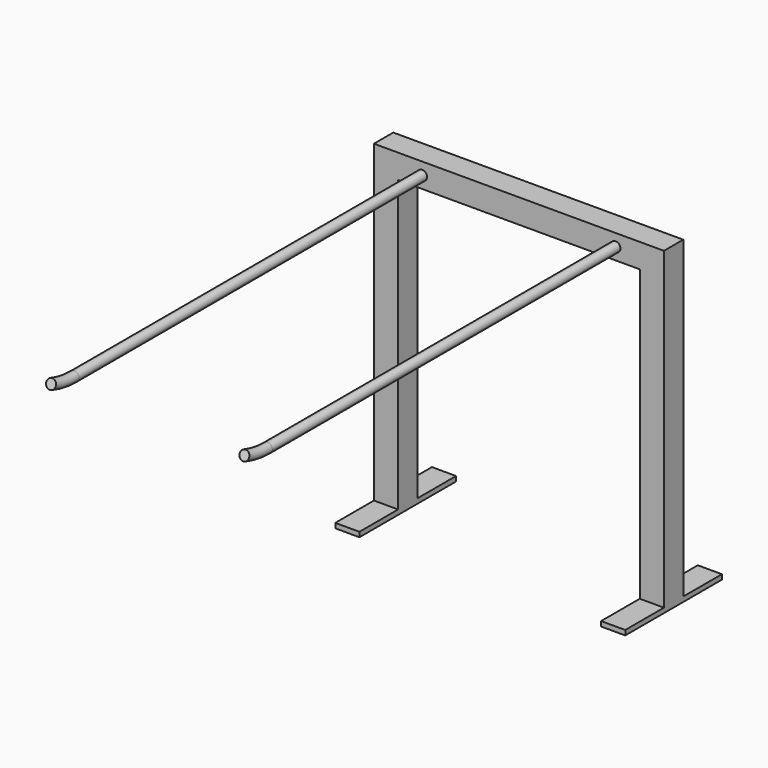
from build123d import *

# Parameters (mm, degrees)
F0_W          = 25
F0_H          = 25
F1_DEPTH      = 150
F1_DEPTH_BACK = 150
F2_R          = 5
F5_W          = 25
F5_H          = 25
F6_DEPTH      = 300
F7_W          = 25
F7_H          = 25
F7_H_2        = 50
F8_DEPTH      = 5


with BuildPart() as f1:
    # F0 (on Right) → F1 (new body, two sides)
    with BuildSketch(Plane.YZ) as f1_sk:
        Rectangle(F0_W, F0_H)
    extrude(amount=F1_DEPTH)
    extrude(f1_sk.sketch, amount=-F1_DEPTH_BACK)

    # F4: sweep along a path in F3
    with BuildLine(Plane.YZ) as f4_path:
        Line((-12.5, 0), (-462.5, 0))
        ThreePointArc((-462.5, 0), (-477.7069063257, 1.2585620455), (-492.5, 5))
    # F2 (on face) → F4 (sweep)
    with BuildSketch(Plane.XZ.offset(12.5)):
        with Locations((-100, 0)):
            Circle(F2_R)
        with Locations((100, 0)):
            Circle(F2_R)
    sweep(path=f4_path.line)

    # F5 (on face) → F6 (join)
    with BuildSketch(Plane(origin=(0, 0, -12.5), x_dir=(1, 0, 0), z_dir=(0, 0, -1))):
        with Locations((-137.5, 0)):
            Rectangle(F5_W, F5_H)
        with Locations((137.5, 0)):
            Rectangle(F5_W, F5_H)
    extrude(amount=F6_DEPTH)

    # F7 (on face) → F8 (join)
    with BuildSketch(Plane(origin=(0, 0, -312.5), x_dir=(1, 0, 0), z_dir=(0, 0, -1))):
        with Locations((-137.5, 0)):
            Rectangle(F7_W, F7_H)
        with Locations((-137.5, -37.5)):
            Rectangle(F7_W, F7_H_2)
        with Locations((-137.5, 37.5)):
            Rectangle(F7_W, F7_H_2)
        with Locations((137.5, 0)):
            Rectangle(F7_W, F7_H)
        with Locations((137.5, 37.5)):
            Rectangle(F7_W, F7_H_2)
        with Locations((137.5, -37.5)):
            Rectangle(F7_W, F7_H_2)
    extrude(amount=F8_DEPTH)


solid = f1.part
